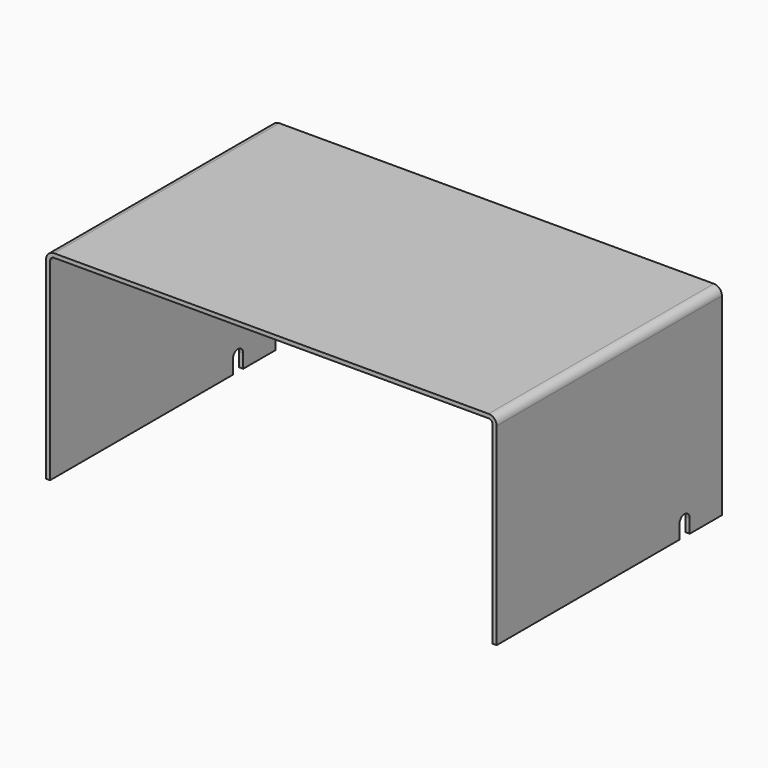
from build123d import *

# Parameters (mm, degrees)
F1_DEPTH = 350
F3_DEPTH = 560.001


with BuildPart() as f1:
    # F0 (on Front) → F1 (new body)
    with BuildSketch(Plane.XZ):
        with BuildLine():
            Line((270, 138.082705), (-270, 138.082705))
            ThreePointArc((-270, 138.082705), (-277.071068, 135.153773), (-280, 128.082705))
            Line((-280, 128.082705), (-280, -111.917295))
            Line((-280, -111.917295), (-275, -111.917295))
            Line((-275, -111.917295), (-275, 128.082705))
            ThreePointArc((-275, 128.082705), (-273.535534, 131.618239), (-270, 133.082705))
            Line((-270, 133.082705), (270, 133.082705))
            ThreePointArc((270, 133.082705), (273.535534, 131.618239), (275, 128.082705))
            Line((275, 128.082705), (275, -111.917295))
            Line((275, -111.917295), (280, -111.917295))
            Line((280, -111.917295), (280, 128.082705))
            ThreePointArc((280, 128.082705), (277.071068, 135.153773), (270, 138.082705))
        make_face()
    extrude(amount=F1_DEPTH)

    # F2 (on face) → F3 (cut, through all)
    with BuildSketch(Plane.YZ.offset(280)):
        with BuildLine():
            Line((-66, -94.917295), (-66, -111.917295))
            Line((-66, -111.917295), (-50, -111.917295))
            Line((-50, -111.917295), (-50, -94.917295))
            ThreePointArc((-50, -94.917295), (-52.343146, -89.260441), (-58, -86.917295))
            ThreePointArc((-58, -86.917295), (-63.656854, -89.260441), (-66, -94.917295))
        make_face()
    extrude(amount=-F3_DEPTH, mode=Mode.SUBTRACT)


solid = f1.part
